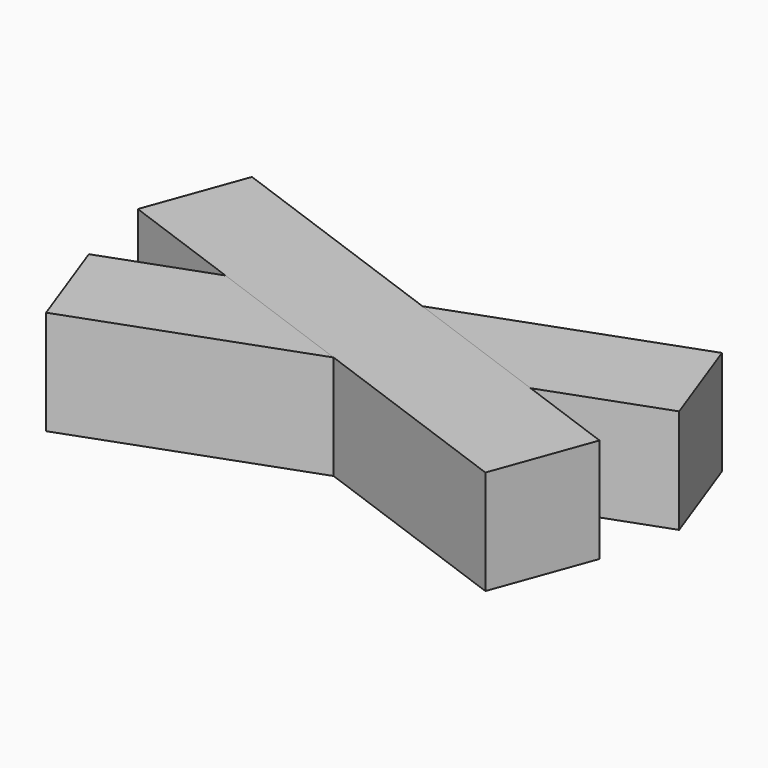
from build123d import *

# Parameters (mm, degrees)
BOX_W                  = 10
BOX_H                  = 2
BOX_DEPTH              = 2
BOX_PLACEMENT_ANGLE    = 20
BOX001_W               = 10
BOX001_H               = 2
BOX001_DEPTH           = 2
BOX001_PLACEMENT_ANGLE = 340


with BuildPart() as cub:
    # Box → Box (new body)
    with BuildSketch(Plane.XY):
        with Locations((5, 1)):
            Rectangle(BOX_W, BOX_H)
    extrude(amount=BOX_DEPTH)


with BuildPart() as cub_1:
    # Box placement: moved
    add(cub.part.moved(Location((0.643557, -1.649793, 0))).rotate(Axis((0.643557, -1.649793, 0), (0, 0, 1)), BOX_PLACEMENT_ANGLE))


with BuildPart() as cub001:
    # Box001 → Box001 (new body)
    with BuildSketch(Plane.XY):
        with Locations((5, 1)):
            Rectangle(BOX001_W, BOX001_H)
    extrude(amount=BOX001_DEPTH)


with BuildPart() as cub001_1:
    # Box001 placement: moved
    add(cub001.part.moved(Location((-0.382503, 1.830715, 0))).rotate(Axis((-0.382503, 1.830715, 0), (0, 0, 1)), BOX001_PLACEMENT_ANGLE))


solid = Compound([cub_1.part, cub001_1.part])
